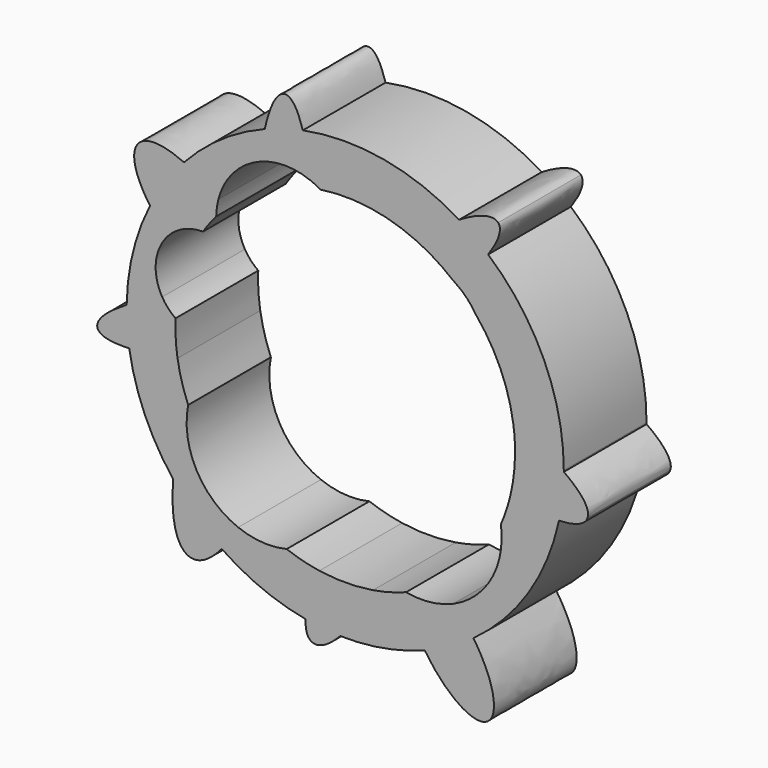
from build123d import *

# Parameters (mm, degrees)
F1_DEPTH = 25.4


with BuildPart() as f1:
    # F0 (on Front) → F1 (new body)
    with BuildSketch(Plane.XZ):
        with BuildLine():
            add(Edge.make_bspline(
                [(53.693628733, -0.3408626991), (48.6992844614, 3.1439014528), (41.2756389905, 6.0803446271)],
                knots=[0.8096035838, 0.8096035838, 0.8096035838, 1.4091490359, 1.4091490359, 1.4091490359], degree=2, weights=[1, 0.9554036285, 1]))
            ThreePointArc((41.2756389905, 6.0803446271), (41.609574758, 3.048319753), (41.7210853749, 0))
            ThreePointArc((41.7210853749, 0), (41.423267093, -4.9761338609), (40.5340640891, -9.8812252922))
            add(Edge.make_bspline(
                [(40.5340640891, -9.8812252922), (47.4861511231, -11.4434594754), (52.5004244601, -11.2617665317)],
                knots=[5.0489926173, 5.0489926173, 5.0489926173, 5.6083337617, 5.6083337617, 5.6083337617], degree=2, weights=[1, 0.9611464254, 1]))
            ThreePointArc((52.5004244601, -11.2617665317), (53.3770621946, -5.831910954), (53.693628733, -0.3408626991))
        make_face()
        with BuildLine():
            ThreePointArc((32.1644406561, 26.5724993581), (38.1227415856, 16.9500896415), (41.2756389905, 6.0803446271))
            add(Edge.make_bspline(
                [(53.693628733, -0.3408626991), (48.6992844614, 3.1439014528), (41.2756389905, 6.0803446271)],
                knots=[0.8096035838, 0.8096035838, 0.8096035838, 1.4091490359, 1.4091490359, 1.4091490359], degree=2, weights=[1, 0.9554036285, 1]))
            ThreePointArc((53.693628733, -0.3408626991), (53.6944401848, -0.1704322081), (53.6947106697, 0))
            ThreePointArc((53.6947106697, 0), (48.826996956, 22.339344712), (35.1064245633, 40.6283264273))
            add(Edge.make_bspline(
                [(27.1371365833, 31.8005567559), (32.084402839, 36.3468628195), (35.1064245633, 40.6283264273)],
                knots=[4.7728408838, 4.7728408838, 4.7728408838, 5.4225636803, 5.4225636803, 5.4225636803], degree=2, weights=[1, 0.9476949741, 1]))
            ThreePointArc((27.1371365833, 31.8005567559), (29.9261613459, 29.4513266854), (32.1644406561, 26.5724993581))
        make_face()
        with BuildLine():
            ThreePointArc((-6.3396664298, -41.2366050302), (-10.413682261, -40.4005468604), (-14.3842187106, -39.1630338067))
            ThreePointArc((-14.3842187106, -39.1630338067), (-20.3966008315, -39.6606382593), (-26.2826891334, -38.3376441323))
            add(Edge.make_bspline(
                [(-30.3308582118, -44.3075726489), (-28.2730966274, -41.8596665456), (-26.2826891334, -38.3376441323)],
                knots=[0.6723492071, 0.6723492071, 0.6723492071, 0.9906714204, 0.9906714204, 0.9906714204], degree=2, weights=[1, 0.987360587, 1]))
            ThreePointArc((-30.3308582118, -44.3075726489), (-20.4796933723, -49.6357140905), (-9.7375287913, -52.8043794296))
            add(Edge.make_bspline(
                [(-6.3396664298, -41.2366050302), (-9.5239160693, -47.9996812879), (-9.7375287913, -52.8043794296)],
                knots=[1.7166702175, 1.7166702175, 1.7166702175, 2.5286176677, 2.5286176677, 2.5286176677], degree=2, weights=[1, 0.9187182955, 1]))
        make_face()
        with BuildLine():
            ThreePointArc((40.5340640891, -9.8812252922), (39.5223349898, -13.3654031667), (38.2117310963, -16.7485095302))
            ThreePointArc((38.2117310963, -16.7485095302), (38.3669461003, -18.1692839125), (38.4187753132, -19.5975714451))
            ThreePointArc((38.4187753132, -19.5975714451), (35.1817365731, -30.4188312542), (26.5340961431, -37.6849442905))
            add(Edge.make_bspline(
                [(31.4827147543, -43.4966737303), (29.210163647, -40.1868893619), (26.5340961431, -37.6849442905)],
                knots=[4.6928177183, 4.6928177183, 4.6928177183, 5.1804165566, 5.1804165566, 5.1804165566], degree=2, weights=[1, 0.9704278342, 1]))
            ThreePointArc((31.4827147543, -43.4966737303), (44.9784862862, -29.3267407889), (52.5004244601, -11.2617665317))
            add(Edge.make_bspline(
                [(40.5340640891, -9.8812252922), (47.4861511231, -11.4434594754), (52.5004244601, -11.2617665317)],
                knots=[5.0489926173, 5.0489926173, 5.0489926173, 5.6083337617, 5.6083337617, 5.6083337617], degree=2, weights=[1, 0.9611464254, 1]))
        make_face()
        with BuildLine():
            ThreePointArc((17.6204868833, 37.8175542156), (22.2695690482, 35.280522378), (26.5597779081, 32.17494619))
            ThreePointArc((26.5597779081, 32.17494619), (26.8503077889, 31.9906052587), (27.1371365833, 31.8005567559))
            add(Edge.make_bspline(
                [(27.1371365833, 31.8005567559), (32.084402839, 36.3468628195), (35.1064245633, 40.6283264273)],
                knots=[4.7728408838, 4.7728408838, 4.7728408838, 5.4225636803, 5.4225636803, 5.4225636803], degree=2, weights=[1, 0.9476949741, 1]))
            ThreePointArc((35.1064245633, 40.6283264273), (31.6517562305, 43.3738202309), (27.983313431, 45.8263693012))
            add(Edge.make_bspline(
                [(27.983313431, 45.8263693012), (22.8232865987, 42.6915518829), (17.6204868833, 37.8175542156)],
                knots=[0.9783258244, 0.9783258244, 0.9783258244, 1.6663632628, 1.6663632628, 1.6663632628], degree=2, weights=[1, 0.9414068654, 1]))
        make_face()
        with BuildLine():
            ThreePointArc((-6.1218418572, 41.2695046873), (6.0028076659, 41.28698663), (17.6204868833, 37.8175542156))
            add(Edge.make_bspline(
                [(27.983313431, 45.8263693012), (22.8232865987, 42.6915518829), (17.6204868833, 37.8175542156)],
                knots=[0.9783258244, 0.9783258244, 0.9783258244, 1.6663632628, 1.6663632628, 1.6663632628], degree=2, weights=[1, 0.9414068654, 1]))
            ThreePointArc((27.983313431, 45.8263693012), (9.4299236667, 52.8601787127), (-10.4111628746, 52.6757025724))
            add(Edge.make_bspline(
                [(-8.576725661, 42.4772444818), (-9.1854960537, 48.4691725927), (-10.4111628746, 52.6757025724)],
                knots=[5.0993735251, 5.0993735251, 5.0993735251, 5.5754450976, 5.5754450976, 5.5754450976], degree=2, weights=[1, 0.9718029995, 1]))
            ThreePointArc((-8.576725661, 42.4772444818), (-7.3248144541, 41.9231115401), (-6.1218418572, 41.2695046873))
        make_face()
        with BuildLine():
            add(Edge.make_bspline(
                [(59.5222562551, -8.3979219198), (60.6169207592, -5.1715348662), (53.693628733, -0.3408626991)],
                knots=[0, 0, 0, 0.8096035838, 0.8096035838, 0.8096035838], degree=2, weights=[1, 0.9191804768, 1]))
            ThreePointArc((53.693628733, -0.3408626991), (53.3770621946, -5.831910954), (52.5004244601, -11.2617665317))
            add(Edge.make_bspline(
                [(52.5004244601, -11.2617665317), (58.625903827, -11.0398088715), (59.5222562551, -8.3979219198)],
                knots=[5.6083337617, 5.6083337617, 5.6083337617, 6.2831853072, 6.2831853072, 6.2831853072], degree=2, weights=[1, 0.9436100125, 1]))
        make_face()
        with BuildLine():
            ThreePointArc((6.8173111066, -41.1603356902), (0.2418478083, -41.7203844001), (-6.3396664298, -41.2366050302))
            add(Edge.make_bspline(
                [(-6.3396664298, -41.2366050302), (-9.5239160693, -47.9996812879), (-9.7375287913, -52.8043794296)],
                knots=[1.7166702175, 1.7166702175, 1.7166702175, 2.5286176677, 2.5286176677, 2.5286176677], degree=2, weights=[1, 0.9187182955, 1]))
            ThreePointArc((-9.7375287913, -52.8043794296), (-5.4910295589, -53.4132057481), (-1.2094802131, -53.6810870933))
            add(Edge.make_bspline(
                [(-1.2094802131, -53.6810870933), (3.4559192594, -48.7460644434), (6.8173111066, -41.1603356902)],
                knots=[4.0260366054, 4.0260366054, 4.0260366054, 4.9246773136, 4.9246773136, 4.9246773136], degree=2, weights=[1, 0.9007425169, 1]))
        make_face()
        with BuildLine():
            add(Edge.make_bspline(
                [(-30.3308582118, -44.3075726489), (-28.2730966274, -41.8596665456), (-26.2826891334, -38.3376441323)],
                knots=[0.6723492071, 0.6723492071, 0.6723492071, 0.9906714204, 0.9906714204, 0.9906714204], degree=2, weights=[1, 0.987360587, 1]))
            ThreePointArc((-26.2826891334, -38.3376441323), (-36.508657562, -29.3443912437), (-38.5788214038, -15.884694015))
            ThreePointArc((-38.5788214038, -15.884694015), (-38.6031705619, -15.8254285068), (-38.6274286754, -15.7661256746))
            add(Edge.make_bspline(
                [(-38.6274286754, -15.7661256746), (-41.6047866658, -24.8493489432), (-42.2831363751, -33.094687371)],
                knots=[4.6480564766, 4.6480564766, 4.6480564766, 5.2776412265, 5.2776412265, 5.2776412265], degree=2, weights=[1, 0.9508606841, 1]))
            ThreePointArc((-42.2831363751, -33.094687371), (-36.7373141578, -39.1598225528), (-30.3308582118, -44.3075726489))
        make_face()
        with BuildLine():
            ThreePointArc((-20.8851648358, 42.52215403), (-14.7267133041, 43.6595556974), (-8.576725661, 42.4772444818))
            add(Edge.make_bspline(
                [(-8.576725661, 42.4772444818), (-9.1854960537, 48.4691725927), (-10.4111628746, 52.6757025724)],
                knots=[5.0993735251, 5.0993735251, 5.0993735251, 5.5754450976, 5.5754450976, 5.5754450976], degree=2, weights=[1, 0.9718029995, 1]))
            ThreePointArc((-10.4111628746, 52.6757025724), (-15.1405582049, 51.5158757195), (-19.7454292684, 49.9323540093))
            add(Edge.make_bspline(
                [(-19.7454292684, 49.9323540093), (-20.4681418042, 46.605504239), (-20.8851648358, 42.52215403)],
                knots=[0.8540179343, 0.8540179343, 0.8540179343, 1.1819925491, 1.1819925491, 1.1819925491], degree=2, weights=[1, 0.9865841866, 1]))
        make_face()
        with BuildLine():
            add(Edge.make_bspline(
                [(37.5697463751, 48.3250170946), (35.6501297843, 50.4841104773), (27.983313431, 45.8263693012)],
                knots=[0, 0, 0, 0.9783258244, 0.9783258244, 0.9783258244], degree=2, weights=[1, 0.8827265046, 1]))
            ThreePointArc((27.983313431, 45.8263693012), (31.6517562305, 43.3738202309), (35.1064245633, 40.6283264273))
            add(Edge.make_bspline(
                [(35.1064245633, 40.6283264273), (39.2249720197, 46.4632980654), (37.5697463751, 48.3250170946)],
                knots=[5.4225636803, 5.4225636803, 5.4225636803, 6.2831853072, 6.2831853072, 6.2831853072], degree=2, weights=[1, 0.9088361367, 1]))
        make_face()
        with BuildLine():
            ThreePointArc((15.0271608977, -38.9558268545), (14.9968676707, -38.9500347429), (14.966583546, -38.9441952262))
            ThreePointArc((14.966583546, -38.9441952262), (10.9481658828, -40.2589943821), (6.8173111066, -41.1603356902))
            add(Edge.make_bspline(
                [(-1.2094802131, -53.6810870933), (3.4559192594, -48.7460644434), (6.8173111066, -41.1603356902)],
                knots=[4.0260366054, 4.0260366054, 4.0260366054, 4.9246773136, 4.9246773136, 4.9246773136], degree=2, weights=[1, 0.9007425169, 1]))
            ThreePointArc((-1.2094802131, -53.6810870933), (9.3406679907, -52.8760236344), (19.5281111595, -50.0177451355))
            add(Edge.make_bspline(
                [(15.0271608977, -38.9558268545), (15.5644341459, -43.9544244636), (19.5281111595, -50.0177451355)],
                knots=[0.6519732759, 0.6519732759, 0.6519732759, 1.4972484493, 1.4972484493, 1.4972484493], degree=2, weights=[1, 0.9120102619, 1]))
        make_face()
        with BuildLine():
            ThreePointArc((-1.2094802131, -53.6810870933), (-5.4910295589, -53.4132057481), (-9.7375287913, -52.8043794296))
            add(Edge.make_bspline(
                [(-9.7375287913, -52.8043794296), (-10.1992836129, -63.1904300033), (-1.2094802131, -53.6810870933)],
                knots=[2.5286176677, 2.5286176677, 2.5286176677, 4.0260366054, 4.0260366054, 4.0260366054], degree=2, weights=[1, 0.7325679354, 1]))
        make_face()
        with BuildLine():
            add(Edge.make_bspline(
                [(-38.1590723991, -48.6196428537), (-34.8104654464, -49.6364980081), (-30.3308582118, -44.3075726489)],
                knots=[0, 0, 0, 0.6723492071, 0.6723492071, 0.6723492071], degree=2, weights=[1, 0.9440234848, 1]))
            ThreePointArc((-30.3308582118, -44.3075726489), (-36.7373141578, -39.1598225528), (-42.2831363751, -33.094687371))
            add(Edge.make_bspline(
                [(-42.2831363751, -33.094687371), (-43.428734623, -47.0194302073), (-38.1590723991, -48.6196428537)],
                knots=[5.2776412265, 5.2776412265, 5.2776412265, 6.2831853072, 6.2831853072, 6.2831853072], degree=2, weights=[1, 0.8762502049, 1]))
        make_face()
        with BuildLine():
            add(Edge.make_bspline(
                [(31.4827147543, -43.4966737303), (29.210163647, -40.1868893619), (26.5340961431, -37.6849442905)],
                knots=[4.6928177183, 4.6928177183, 4.6928177183, 5.1804165566, 5.1804165566, 5.1804165566], degree=2, weights=[1, 0.9704278342, 1]))
            ThreePointArc((26.5340961431, -37.6849442905), (20.8760610269, -39.1844588582), (15.0271608977, -38.9558268545))
            add(Edge.make_bspline(
                [(15.0271608977, -38.9558268545), (15.5644341459, -43.9544244636), (19.5281111595, -50.0177451355)],
                knots=[0.6519732759, 0.6519732759, 0.6519732759, 1.4972484493, 1.4972484493, 1.4972484493], degree=2, weights=[1, 0.9120102619, 1]))
            ThreePointArc((19.5281111595, -50.0177451355), (25.712976941, -47.1377213146), (31.4827147543, -43.4966737303))
        make_face()
        with BuildLine():
            add(Edge.make_bspline(
                [(19.5281111595, -50.0177451355), (28.5825003351, -63.8684360144), (34.7255731463, -60.5174745098), (40.8686459575, -57.1665130052), (31.4827147543, -43.4966737303)],
                knots=[1.4972484493, 1.4972484493, 1.4972484493, 3.0950330838, 3.0950330838, 4.6928177183, 4.6928177183, 4.6928177183], degree=2, weights=[1, 0.6975008847, 1, 0.6975008847, 1]))
            ThreePointArc((31.4827147543, -43.4966737303), (25.712976941, -47.1377213146), (19.5281111595, -50.0177451355))
        make_face()
        with BuildLine():
            ThreePointArc((-31.1543963718, 30.9961341287), (-27.4120365411, 37.9995894977), (-20.8851648358, 42.52215403))
            add(Edge.make_bspline(
                [(-19.7454292684, 49.9323540093), (-20.4681418042, 46.605504239), (-20.8851648358, 42.52215403)],
                knots=[0.8540179343, 0.8540179343, 0.8540179343, 1.1819925491, 1.1819925491, 1.1819925491], degree=2, weights=[1, 0.9865841866, 1]))
            ThreePointArc((-19.7454292684, 49.9323540093), (-30.4494435134, 44.2261613033), (-39.5995081415, 36.2629412603))
            add(Edge.make_bspline(
                [(-31.1543963718, 30.9961341287), (-35.4059183226, 34.3519271397), (-39.5995081415, 36.2629412603)],
                knots=[4.8332950545, 4.8332950545, 4.8332950545, 5.3387113323, 5.3387113323, 5.3387113323], degree=2, weights=[1, 0.9682388652, 1]))
        make_face()
        with BuildLine():
            ThreePointArc((-19.7454292684, 49.9323540093), (-15.1405582049, 51.5158757195), (-10.4111628746, 52.6757025724))
            add(Edge.make_bspline(
                [(-10.4111628746, 52.6757025724), (-12.2772780351, 59.080272913), (-14.7332325578, 59.080272913)],
                knots=[5.5754450976, 5.5754450976, 5.5754450976, 6.2831853072, 6.2831853072, 6.2831853072], degree=2, weights=[1, 0.9380386309, 1]))
            add(Edge.make_bspline(
                [(-14.7332325578, 59.080272913), (-17.7581692102, 59.080272913), (-19.7454292684, 49.9323540093)],
                knots=[0, 0, 0, 0.8540179343, 0.8540179343, 0.8540179343], degree=2, weights=[1, 0.9102085562, 1]))
        make_face()
        with BuildLine():
            add(Edge.make_bspline(
                [(-38.6274286754, -15.7661256746), (-41.6047866658, -24.8493489432), (-42.2831363751, -33.094687371)],
                knots=[4.6480564766, 4.6480564766, 4.6480564766, 5.2776412265, 5.2776412265, 5.2776412265], degree=2, weights=[1, 0.9508606841, 1]))
            ThreePointArc((-38.6274286754, -15.7661256746), (-40.1691199824, -11.2734539827), (-41.1901710225, -6.6346647235))
            add(Edge.make_bspline(
                [(-53.0451270773, -8.3268509806), (-48.1613250647, -8.0878187298), (-41.1901710225, -6.6346647235)],
                knots=[0.6133498335, 0.6133498335, 0.6133498335, 1.0433774897, 1.0433774897, 1.0433774897], degree=2, weights=[1, 0.9769734439, 1]))
            ThreePointArc((-53.0451270773, -8.3268509806), (-49.2466332157, -21.3983894446), (-42.2831363751, -33.094687371))
        make_face()
        with BuildLine():
            ThreePointArc((-34.9425613518, 22.7961920292), (-33.3874933876, 25.0184781742), (-31.6913143482, 27.1350245945))
            ThreePointArc((-31.6913143482, 27.1350245945), (-31.5345084219, 29.0811056075), (-31.1543963718, 30.9961341287))
            add(Edge.make_bspline(
                [(-31.1543963718, 30.9961341287), (-35.4059183226, 34.3519271397), (-39.5995081415, 36.2629412603)],
                knots=[4.8332950545, 4.8332950545, 4.8332950545, 5.3387113323, 5.3387113323, 5.3387113323], degree=2, weights=[1, 0.9682388652, 1]))
            ThreePointArc((-39.5995081415, 36.2629412603), (-44.1892584675, 30.5029734614), (-47.9476323812, 24.1691229245))
            add(Edge.make_bspline(
                [(-47.9476323812, 24.1691229245), (-46.0966583923, 21.542122406), (-43.6072420088, 18.9869027955)],
                knots=[1.0393431008, 1.0393431008, 1.0393431008, 1.3793222328, 1.3793222328, 1.3793222328], degree=2, weights=[1, 0.9855865321, 1]))
            ThreePointArc((-43.6072420088, 18.9869027955), (-39.6842488788, 21.8226562192), (-34.9425613518, 22.7961920292))
        make_face()
        with BuildLine():
            ThreePointArc((-41.1901710225, -6.6346647235), (-41.6520026913, -2.3999243035), (-41.6796110485, 1.8598353955))
            ThreePointArc((-41.6796110485, 1.8598353955), (-43.5048627977, 3.4572565278), (-44.9551329371, 5.4014825293))
            add(Edge.make_bspline(
                [(-44.9551329371, 5.4014825293), (-50.0196481139, 3.0827092087), (-53.6874014766, 0.8859326133)],
                knots=[5.2339716844, 5.2339716844, 5.2339716844, 5.5712940382, 5.5712940382, 5.5712940382], degree=2, weights=[1, 0.9858103888, 1]))
            ThreePointArc((-53.6874014766, 0.8859326133), (-53.5646992735, -3.7342931913), (-53.0451270773, -8.3268509806))
            add(Edge.make_bspline(
                [(-53.0451270773, -8.3268509806), (-48.1613250647, -8.0878187298), (-41.1901710225, -6.6346647235)],
                knots=[0.6133498335, 0.6133498335, 0.6133498335, 1.0433774897, 1.0433774897, 1.0433774897], degree=2, weights=[1, 0.9769734439, 1]))
        make_face()
        with BuildLine():
            add(Edge.make_bspline(
                [(-60.8482472599, -6.4826011658), (-60.1266412767, -8.6734478069), (-53.0451270773, -8.3268509806)],
                knots=[0, 0, 0, 0.6133498335, 0.6133498335, 0.6133498335], degree=2, weights=[1, 0.9533426488, 1]))
            ThreePointArc((-53.0451270773, -8.3268509806), (-53.5646992735, -3.7342931913), (-53.6874014766, 0.8859326133))
            add(Edge.make_bspline(
                [(-53.6874014766, 0.8859326133), (-61.6954496919, -3.9104348508), (-60.8482472599, -6.4826011658)],
                knots=[5.5712940382, 5.5712940382, 5.5712940382, 6.2831853072, 6.2831853072, 6.2831853072], degree=2, weights=[1, 0.9373173762, 1]))
        make_face()
        with BuildLine():
            ThreePointArc((-47.9476323812, 24.1691229245), (-44.1892584675, 30.5029734614), (-39.5995081415, 36.2629412603))
            add(Edge.make_bspline(
                [(-39.5995081415, 36.2629412603), (-47.8945435176, 40.042979466), (-50.8296489716, 36.6857647896)],
                knots=[5.3387113323, 5.3387113323, 5.3387113323, 6.2831853072, 6.2831853072, 6.2831853072], degree=2, weights=[1, 0.8905529574, 1]))
            add(Edge.make_bspline(
                [(-50.8296489716, 36.6857647896), (-54.1172457339, 32.9253656237), (-47.9476323812, 24.1691229245)],
                knots=[0, 0, 0, 1.0393431008, 1.0393431008, 1.0393431008], degree=2, weights=[1, 0.867982333, 1]))
        make_face()
        with BuildLine():
            add(Edge.make_bspline(
                [(-44.9551329371, 5.4014825293), (-50.0196481139, 3.0827092087), (-53.6874014766, 0.8859326133)],
                knots=[5.2339716844, 5.2339716844, 5.2339716844, 5.5712940382, 5.5712940382, 5.5712940382], degree=2, weights=[1, 0.9858103888, 1]))
            ThreePointArc((-44.9551329371, 5.4014825293), (-46.5107671058, 12.4154026141), (-43.6072420088, 18.9869027955))
            add(Edge.make_bspline(
                [(-47.9476323812, 24.1691229245), (-46.0966583923, 21.542122406), (-43.6072420088, 18.9869027955)],
                knots=[1.0393431008, 1.0393431008, 1.0393431008, 1.3793222328, 1.3793222328, 1.3793222328], degree=2, weights=[1, 0.9855865321, 1]))
            ThreePointArc((-47.9476323812, 24.1691229245), (-52.1339310295, 12.8520500045), (-53.6874014766, 0.8859326133))
        make_face()
    extrude(amount=F1_DEPTH)


solid = f1.part
